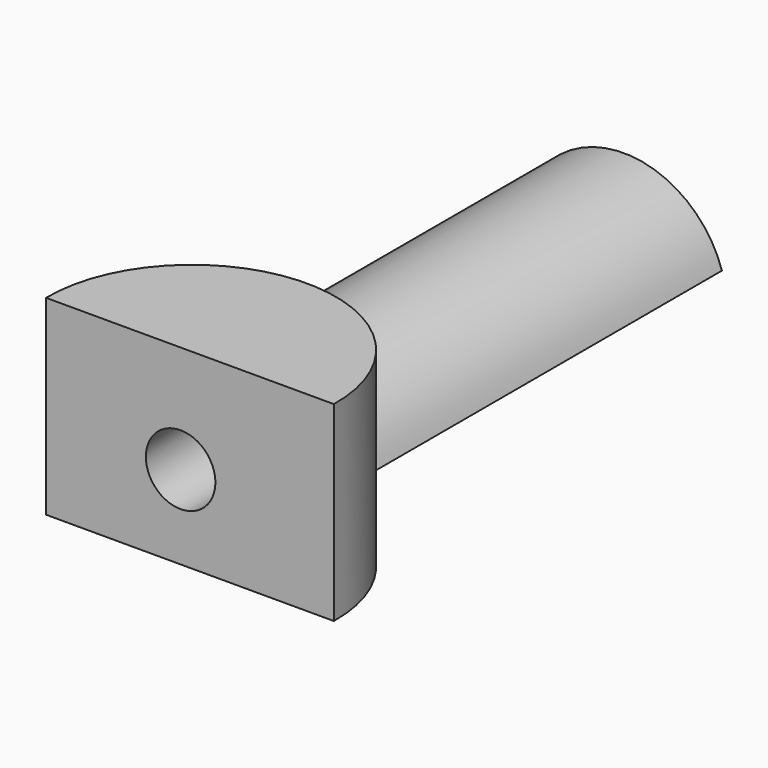
from build123d import *

# Parameters (mm, degrees)
F1_DEPTH = 32.512
F3_DEPTH = 45.72
F4_DEPTH = 48.514
F5_R     = 5.9149018799
F6_DEPTH = 140.208


with BuildPart() as f1:
    # F0 (on Top) → F1 (new body)
    with BuildSketch(Plane.XY):
        with BuildLine():
            Line((0, 0), (48.9916317165, 0))
            ThreePointArc((48.9916317165, 0), (24.4958158582, 24.9102240026), (0, 0))
        make_face()
    extrude(amount=F1_DEPTH)

    # F2 (on face) → F3 (join)
    with BuildSketch(Plane.XZ):
        with BuildLine():
            add(Edge.make_bspline(
                [(5.7047577575, 9.1287503019), (11.4960234604, 7.3019890664), (23.0785548663, 3.6484665953), (34.1390326611, 8.6653472163), (39.6692715585, 11.1737875268)],
                knots=[0, 0, 0, 0, 0.5, 1, 1, 1, 1], degree=3))
            ThreePointArc((39.6692715585, 11.1737875268), (21.8927314115, 23.3429330858), (5.7047577575, 9.1287503019))
        make_face()
    extrude(amount=-F3_DEPTH)

    # F4 (add): a face of the model
    f4_faces = [f1.faces().sort_by_distance(p)[0] for p in [
        (22.4499268114, 45.72, 14.0888929688),
    ]]
    extrude(f4_faces, amount=F4_DEPTH)

    # F5 (on face) → F6 (cut)
    with BuildSketch(Plane(origin=(0, 94.234, 0), x_dir=(-1, 0, 0), z_dir=(0, 1, 0))):
        with Locations((-22.9014139622, 14.2046744004)):
            Circle(F5_R)
    extrude(amount=-F6_DEPTH, mode=Mode.SUBTRACT)


solid = f1.part
